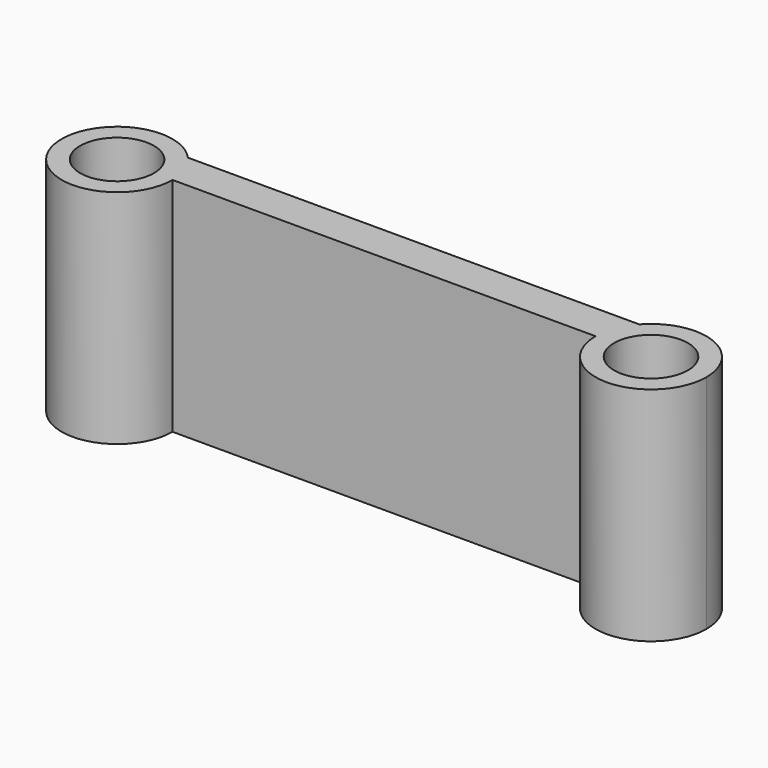
from build123d import *

# Parameters (mm, degrees)
F0_R     = 5
F1_DEPTH = 30


with BuildPart() as f1:
    # F0 (on Top) → F1 (new body)
    with BuildSketch(Plane.XY):
        with BuildLine():
            ThreePointArc((-30.527577, 5), (-43.124039, -2.676166), (-28.617747, 0))
            ThreePointArc((-28.617747, 0), (-29.111454, 2.676166), (-30.527577, 5))
        make_face()
        with Locations((-36.117747, 0)):
            Circle(F0_R, mode=Mode.SUBTRACT)
        with BuildLine():
            ThreePointArc((-30.527577, 5), (-29.111454, 2.676166), (-28.617747, 0))
            Line((-28.617747, 0), (28.617747, 0))
            ThreePointArc((28.617747, 0), (29.111454, 2.676166), (30.527577, 5))
            Line((30.527577, 5), (-30.527577, 5))
        make_face()
        with BuildLine():
            ThreePointArc((30.527577, 5), (29.111454, 2.676166), (28.617747, 0))
            ThreePointArc((28.617747, 0), (36.117747, -7.5), (43.617747, 0))
            ThreePointArc((43.617747, 0), (38.793912, 7.006293), (30.527577, 5))
        make_face()
        with Locations((36.117747, 0)):
            Circle(F0_R, mode=Mode.SUBTRACT)
    extrude(amount=F1_DEPTH)


solid = f1.part
